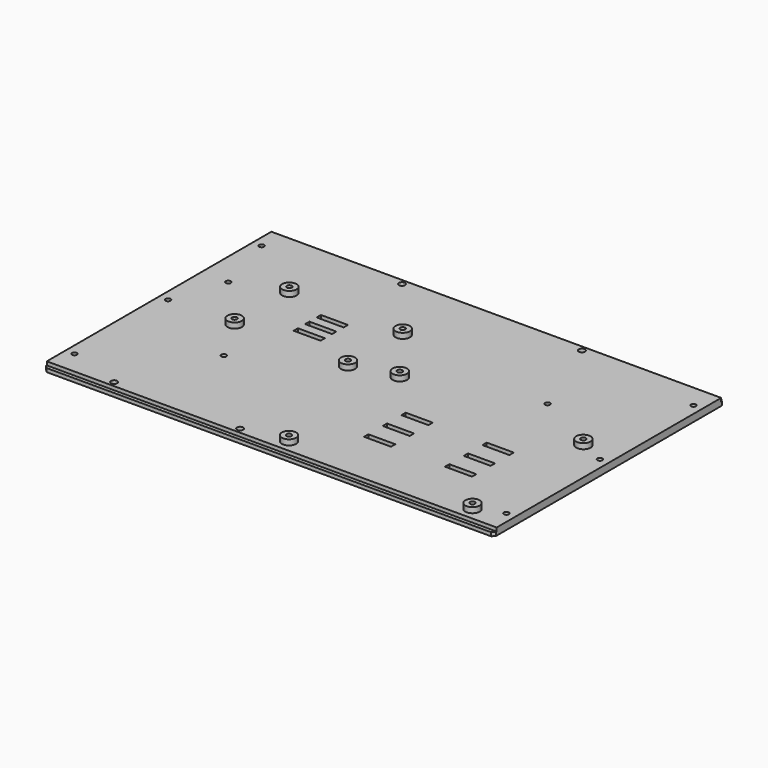
from build123d import *

# Parameters (mm, degrees)
SKETCH_W        = 250
SKETCH_H        = 160
PAD_DEPTH       = 4
SKETCH001_R     = 4
PAD001_DEPTH    = 3
SKETCH002_R     = 1.4
POCKET_DEPTH    = 5
SKETCH019_R     = 1.4
POCKET009_DEPTH = 2
SKETCH022_R     = 1.4
SKETCH022_R_2   = 1.75
SKETCH022_W     = 15
SKETCH022_H     = 3
POCKET010_DEPTH = 5
SKETCH043_W     = 2
SKETCH043_H     = 2
POCKET025_DEPTH = 250.001
CHAMFER032_SIZE = 1.5


with BuildPart() as part:
    # Sketch → Pad (new body)
    with BuildSketch(Plane.XY):
        Rectangle(SKETCH_W, SKETCH_H)
    extrude(amount=PAD_DEPTH)

    # Sketch001 (on Face6 of Pad) → Pad001 (join)
    with BuildSketch(Plane.XY.offset(4)):
        with Locations((4, 6)):
            Circle(SKETCH001_R)
        with Locations((106, 6)):
            Circle(SKETCH001_R)
        with Locations((106, -71)):
            Circle(SKETCH001_R)
        with Locations((4, -71)):
            Circle(SKETCH001_R)
        with Locations((-83.0000000001, 38)):
            Circle(SKETCH001_R)
        with Locations((-20, 38)):
            Circle(SKETCH001_R)
        with Locations((-20, 0)):
            Circle(SKETCH001_R)
        with Locations((-83.0000000001, 0)):
            Circle(SKETCH001_R)
    extrude(amount=PAD001_DEPTH)

    # Sketch002 → Pocket (cut)
    with BuildSketch(Plane.XY.offset(7)):
        with Locations((-83, 38)):
            Circle(SKETCH002_R)
        with Locations((-20, 38)):
            Circle(SKETCH002_R)
        with Locations((-83, 0)):
            Circle(SKETCH002_R)
        with Locations((-20, 0)):
            Circle(SKETCH002_R)
        with Locations((4, 6)):
            Circle(SKETCH002_R)
        with Locations((106, 6)):
            Circle(SKETCH002_R)
        with Locations((106, -71)):
            Circle(SKETCH002_R)
        with Locations((4, -71)):
            Circle(SKETCH002_R)
    extrude(amount=-POCKET_DEPTH, mode=Mode.SUBTRACT)

    # Sketch019 (on Face5 of Pocket) → Pocket009 (cut)
    with BuildSketch(Plane.XY.offset(4)):
        with Locations((-110, 29.3395385444)):
            Circle(SKETCH019_R)
        with Locations((69.686069743, 26.5638621346)):
            Circle(SKETCH019_R)
        with Locations((-68.3727818418, -25.7609993889)):
            Circle(SKETCH019_R)
    extrude(amount=-POCKET009_DEPTH, mode=Mode.SUBTRACT)

    # Sketch022 (on Face5 of Pocket009) → Pocket010 (cut)
    with BuildSketch(Plane.XY.offset(4)):
        with Locations((-120, 65)):
            Circle(SKETCH022_R)
        with Locations((-120, -65)):
            Circle(SKETCH022_R)
        with Locations((120, 65)):
            Circle(SKETCH022_R)
        with Locations((120, -65)):
            Circle(SKETCH022_R)
        with Locations((-50, 75)):
            Circle(SKETCH022_R_2)
        with Locations((50, 75)):
            Circle(SKETCH022_R_2)
        with Locations((-90, -75)):
            Circle(SKETCH022_R_2)
        with Locations((-20, -75)):
            Circle(SKETCH022_R_2)
        with Locations((-120, 0)):
            Circle(SKETCH022_R)
        with Locations((120, 0)):
            Circle(SKETCH022_R)
        with Locations((34.2977322278, -19.8916100594)):
            Rectangle(SKETCH022_W, SKETCH022_H)
        with Locations((34.2977322278, -32.8916100594)):
            Rectangle(SKETCH022_W, SKETCH022_H)
        with Locations((34.2977322278, -45.8916100594)):
            Rectangle(SKETCH022_W, SKETCH022_H)
        with Locations((79.2977322278, -19.8916100594)):
            Rectangle(SKETCH022_W, SKETCH022_H)
        with Locations((79.2977322278, -32.8916100594)):
            Rectangle(SKETCH022_W, SKETCH022_H)
        with Locations((79.2977322278, -45.8916100594)):
            Rectangle(SKETCH022_W, SKETCH022_H)
        with Locations((-51.8112448514, 28.8282704754)):
            Rectangle(SKETCH022_W, SKETCH022_H)
        with Locations((-51.8112448514, 20.8282704754)):
            Rectangle(SKETCH022_W, SKETCH022_H)
        with Locations((-51.8112448514, 12.8282704754)):
            Rectangle(SKETCH022_W, SKETCH022_H)
    extrude(amount=-POCKET010_DEPTH, mode=Mode.SUBTRACT)

    # Sketch043 (on Face2 of Pocket010) → Pocket025 (cut, through all)
    with BuildSketch(Plane(origin=(-125, 0, 0), x_dir=(0, -1, 0), z_dir=(-1, 0, 0))):
        with Locations((79, 3)):
            Rectangle(SKETCH043_W, SKETCH043_H)
        with Locations((-79, 3)):
            Rectangle(SKETCH043_W, SKETCH043_H)
    extrude(amount=-POCKET025_DEPTH, mode=Mode.SUBTRACT)

    # Chamfer032
    chamfer032_edges = [part.edges().sort_by_distance(p)[0] for p in [
        (-125, 80, 1),
        (125, 80, 1),
        (125, -80, 1),
        (-125, -80, 1),
    ]]
    chamfer(chamfer032_edges, length=CHAMFER032_SIZE)


with BuildPart() as part_1:
    # Body placement: moved
    add(part.part.moved(Location((0, 0, -36.5))))


solid = part_1.part
